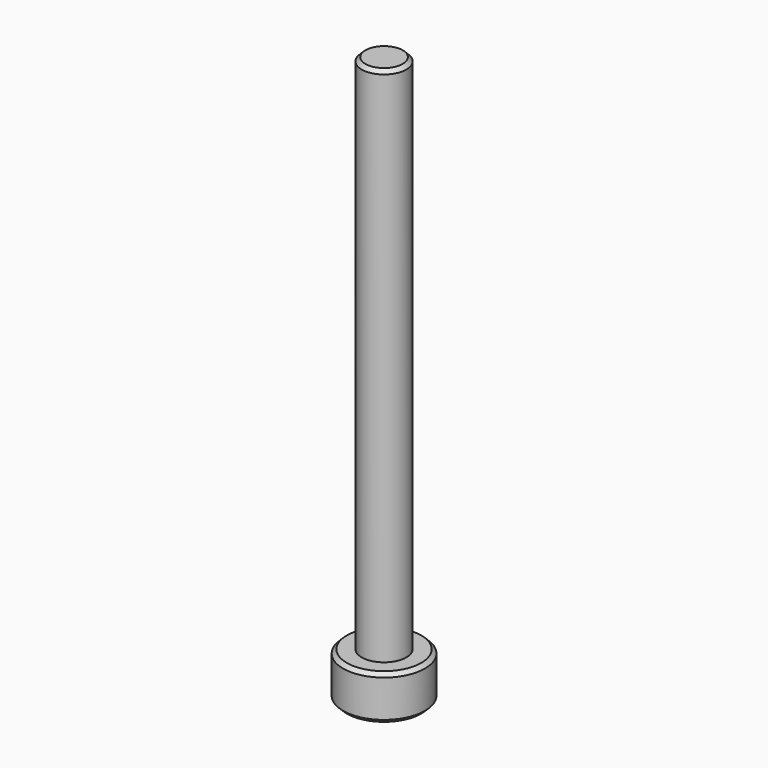
from build123d import *

# Parameters (mm, degrees)
F0_R     = 1.5
F1_DEPTH = 35
F2_R     = 2.75
F3_DEPTH = 3
F5_DEPTH = 1.3
F6_SIZE  = 0.25


with BuildPart() as f1:
    # F0 (on Top) → F1 (new body)
    with BuildSketch(Plane.XY):
        Circle(F0_R)
    extrude(amount=F1_DEPTH)

    # F2 (on Top) → F3 (join)
    with BuildSketch(Plane.XY):
        Circle(F2_R)
    extrude(amount=-F3_DEPTH)

    # F4 (on face) → F5 (cut)
    with BuildSketch(Plane(origin=(0, 0, -3), x_dir=(1, 0, 0), z_dir=(0, 0, -1))):
        Polygon((0.019386, -1.443245), (1.25958, -0.704834), (1.240194, 0.738412), (-0.019386, 1.443245), (-1.25958, 0.704834), (-1.240194, -0.738412), align=None)
    extrude(amount=-F5_DEPTH, mode=Mode.SUBTRACT)

    # F6
    f6_edges = [f1.edges().sort_by_distance(p)[0] for p in [
        (-2.75, 0, -3),
        (-2.75, 0, 0),
        (-1.5, 0, 35),
    ]]
    chamfer(f6_edges, length=F6_SIZE)


solid = f1.part
